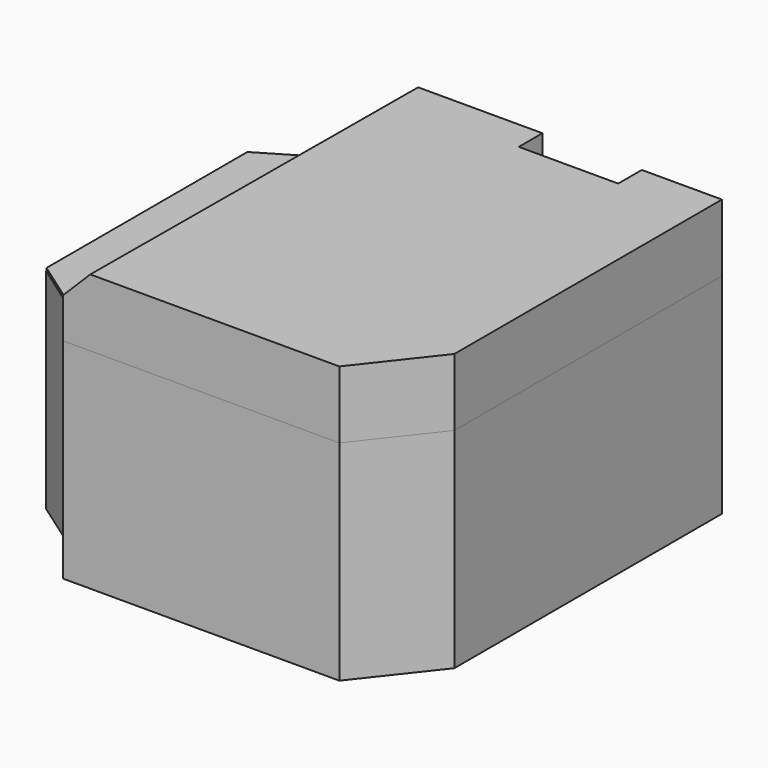
from build123d import *

# Parameters (mm, degrees)
F1_DEPTH = 1840
F3_DEPTH = 25
F5_DEPTH = 590
F6_SIZE2 = 240
F6_SIZE  = 240
F7_T     = 2.5
F8_T     = 2.5


with BuildPart() as f1:
    # F0 (on Top) → F1 (new body)
    with BuildSketch(Plane.XY):
        Polygon((0, 380), (0, 0), (2430, 0), (2930, 637.2597586542), (2930, 3577.2597586542), (2230, 3577.2597586542), (2230, 3317.2597586542), (1350, 3317.2597586542), (1350, 3577.2597586542), (20, 3577.2597586542), (20, 3247.2597586542), (-230, 3247.2597586542), (-737.4345606747, 2946.2445320744), (-737.4345606747, 736.2445320744), (-230, 380), align=None)
    extrude(amount=F1_DEPTH)

    # F7
    f7_openings = [f1.faces().sort_by_distance(p)[0] for p in [
        (1148.423993, 1782.531794, 1840),
    ]]
    offset(amount=F7_T, openings=f7_openings, kind=Kind.INTERSECTION)


with BuildPart() as f3:
    # F2 (on face) → F3 (new body)
    with BuildSketch(Plane.XY.offset(1840)):
        Polygon((0, 380), (20, 3247.2597586542), (-230, 3247.2597586542), (-737.4345606747, 2946.2445320744), (-737.4345606747, 736.2445320744), (-230, 380), align=None)
    extrude(amount=F3_DEPTH)


with BuildPart() as f5:
    # F4 (on face) → F5 (new body)
    with BuildSketch(Plane.XY.offset(1840)):
        Polygon((20, 3577.2597586542), (0, 0), (2430, 0), (2930, 637.2597586542), (2930, 3577.2597586542), (2230, 3577.2597586542), (2230, 3317.2597586542), (1350, 3317.2597586542), (1350, 3577.2597586542), align=None)
    extrude(amount=F5_DEPTH)

    # F6
    f6_edges = [f5.edges().sort_by_distance(p)[0] for p in [
        (10, 1788.629879, 2430),
    ]]
    chamfer(f6_edges, length=F6_SIZE, length2=F6_SIZE2)

    # F8
    f8_openings = [f5.faces().sort_by_distance(p)[0] for p in [
        (1442.227353, 1773.744575, 1840),
    ]]
    offset(amount=F8_T, openings=f8_openings, kind=Kind.INTERSECTION)


solid = Compound([f1.part, f3.part, f5.part])
